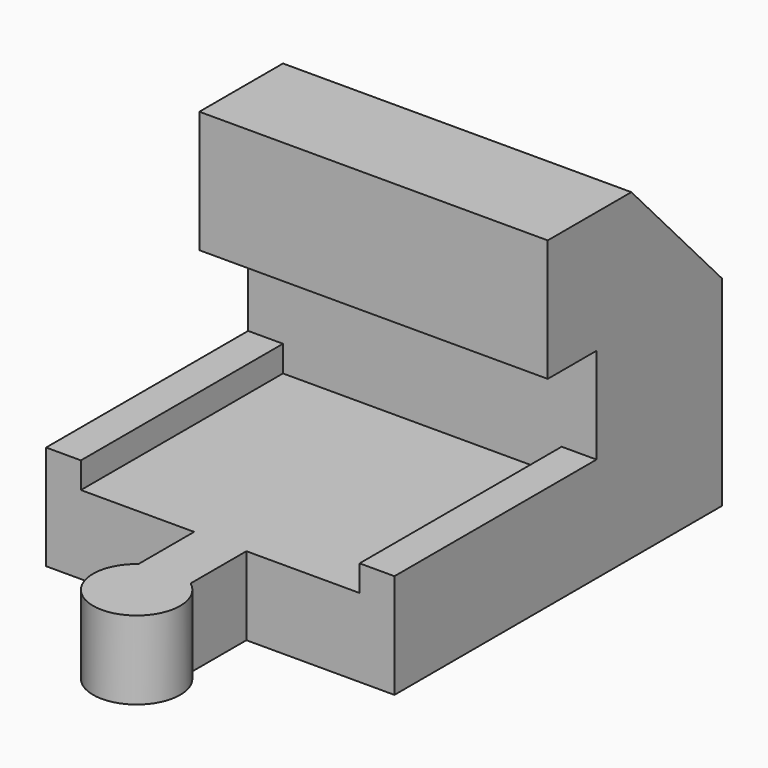
from build123d import *

# Parameters (mm, degrees)
PAD_DEPTH         = 20
PAD001_DEPTH      = 3
PAD001_DEPTH_BACK = 6


with BuildPart() as part:
    # AdditivePipe: sweep along a path in Sketch
    with BuildLine(Plane.XY) as additivepipe_path:
        Line((0, 0), (0, 47))
    # Sketch001 → AdditivePipe (sweep)
    with BuildSketch(Plane.XZ):
        Polygon((-20, 6), (-20, -6), (-16, -6), (-9, -6), (9, -6), (16, -6), (20, -6), (20, 6), (16, 6), (16, 3), (9, 3), (-9, 3), (-16, 3), (-16, 6), align=None)
    sweep(path=additivepipe_path.line)

    # Sketch002 → Pad (new body, symmetric)
    with BuildSketch(Plane.YZ):
        Polygon((47, 6), (47, 17), (34, 31), (22, 31), (22, 17), (29, 17), (29, 3), (47, 3), align=None)
    extrude(amount=PAD_DEPTH, both=True)

    # Sketch003 → Pad001 (join, two sides)
    with BuildSketch(Plane.XY) as pad001_sk:
        with BuildLine():
            Line((-3, 0), (3, 0))
            Line((3, 0), (3, -8))
            ThreePointArc((-3, -8), (0, -17), (3, -8))
            Line((-3, 0), (-3, -8))
        make_face()
    extrude(amount=PAD001_DEPTH)
    extrude(pad001_sk.sketch, amount=-PAD001_DEPTH_BACK)


solid = part.part
